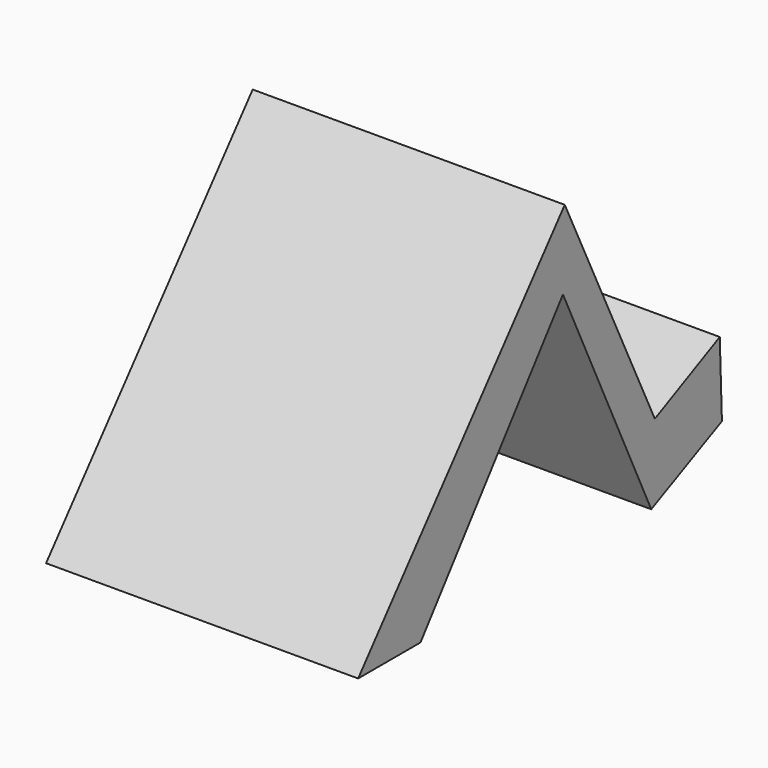
from build123d import *

# Parameters (mm, degrees)
F1_DEPTH = 25.4
F2_DEPTH = 25.4
F3_DEPTH = 25.4


with BuildPart() as f1:
    # F0 (on Right) → F1 (new body, symmetric)
    with BuildSketch(Plane.YZ):
        Polygon((47.677338, 12.679111), (46.949221, 0), (61.328525, 6.781631), (60.887855, 19.032789), align=None)
    extrude(amount=F1_DEPTH, both=True)

    # F0 (on Right) → F2 (join, symmetric)
    with BuildSketch(Plane.YZ):
        Polygon((29.342864, 50.8), (28.977855, 38.105246), (46.949221, 0), (47.677338, 12.679111), align=None)
    extrude(amount=F2_DEPTH, both=True)

    # F0 (on Right) → F3 (join, symmetric)
    with BuildSketch(Plane.YZ):
        Polygon((-12.7, 0), (0, 0), (28.977855, 38.105246), (29.342864, 50.8), align=None)
    extrude(amount=F3_DEPTH, both=True)


solid = f1.part
